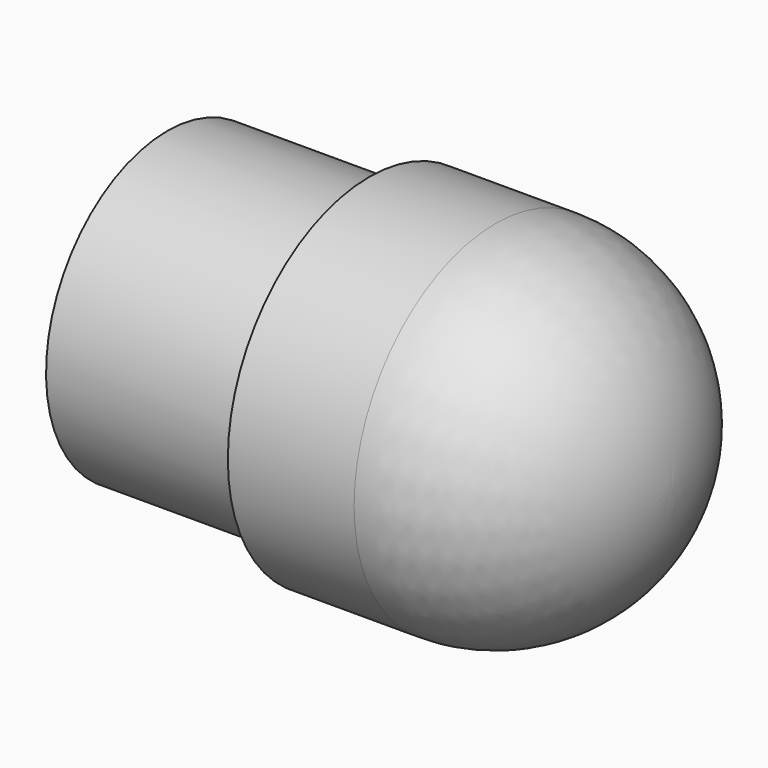
from build123d import *

# Parameters (mm, degrees)
F0_W = 20
F0_H = 15


with BuildPart() as f1:
    # F0 (on Front) → F1 (revolve)
    with BuildSketch(Plane.XZ):
        with Locations((10, 22.5)):
            Rectangle(F0_W, F0_H)
        Polygon((20, 30), (20, 15), (32.5, 15), (32.5, 32.5), (20, 32.5), align=None)
        with BuildLine():
            Line((32.5, 32.5), (32.5, 15))
            Line((32.5, 15), (50, 15))
            ThreePointArc((50, 15), (44.874369, 27.374369), (32.5, 32.5))
        make_face()
    revolve(axis=Axis((16.25, 0, 15), (1, 0, 0)))


solid = f1.part
